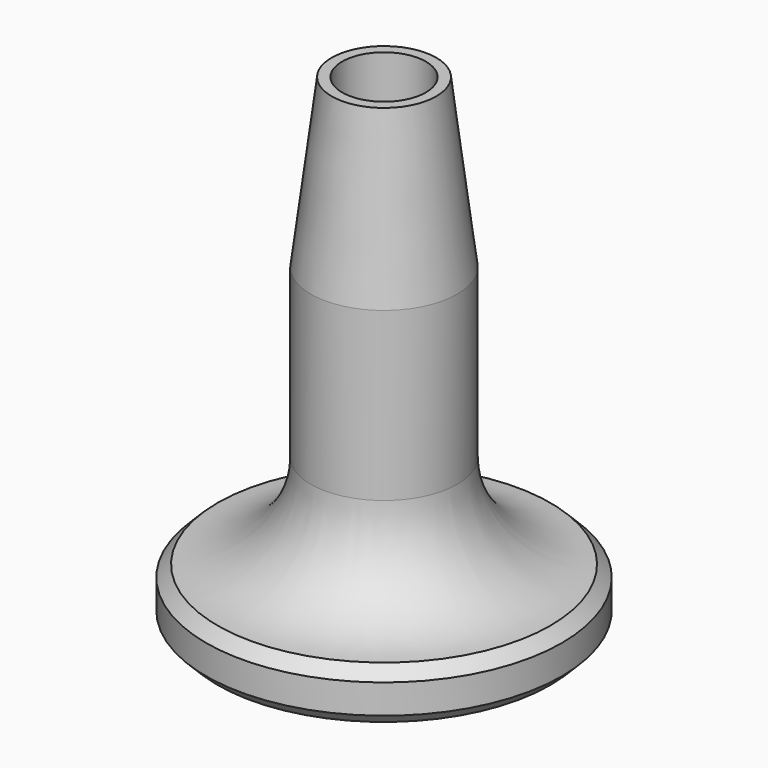
from build123d import *

# Parameters (mm, degrees)
FILLET_R     = 9
CHAMFER_SIZE = 1.1


with BuildPart() as part:
    # Sketch → Revolution (revolve)
    with BuildSketch(Plane.XZ):
        Polygon((4, 46), (4, 8), (2, 8), (2, 5), (5, 5), (5, 0), (17, 0), (17, 5), (7, 5), (7, 30), (5, 46), align=None)
    revolve(axis=Axis((0, 0, 0), (0, 0, 1)))

    # Fillet
    fillet_edges = [part.edges().sort_by_distance(p)[0] for p in [
        (-7, 0, 5),
    ]]
    fillet(fillet_edges, radius=FILLET_R)

    # Chamfer
    chamfer_edges = [part.edges().sort_by_distance(p)[0] for p in [
        (-17, 0, 5),
        (-17, 0, 0),
    ]]
    chamfer(chamfer_edges, length=CHAMFER_SIZE)


solid = part.part
